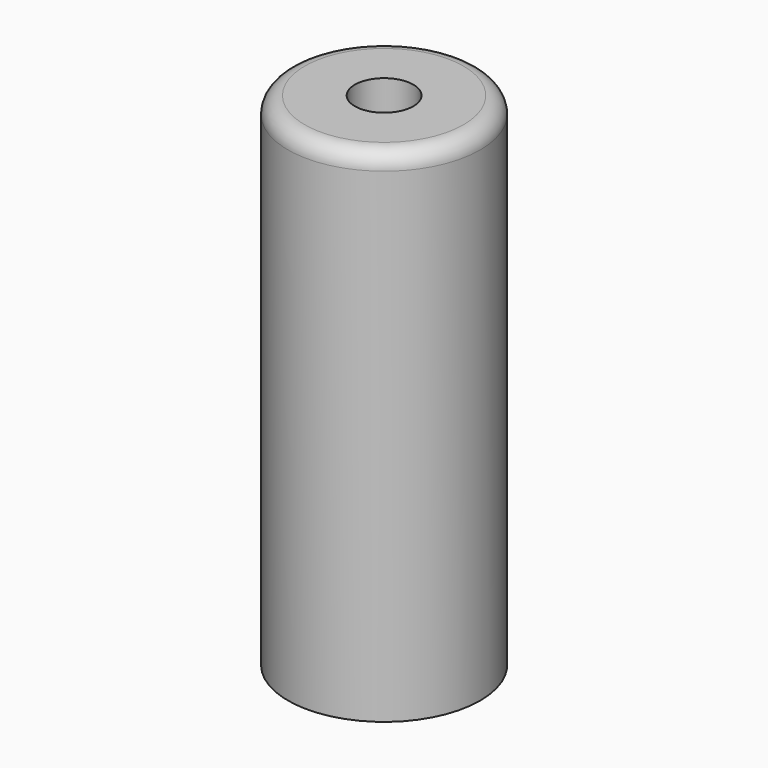
from build123d import *

# Parameters (mm, degrees)
F0_R     = 5.75
F1_DEPTH = 30
F2_R     = 1.75
F3_DEPTH = 25
F4_R     = 1


with BuildPart() as f1:
    # F0 (on Top) → F1 (new body)
    with BuildSketch(Plane.XY):
        Circle(F0_R)
    extrude(amount=F1_DEPTH)

    # F2 (on face) → F3 (cut)
    with BuildSketch(Plane.XY.offset(30)):
        Circle(F2_R)
    extrude(amount=-F3_DEPTH, mode=Mode.SUBTRACT)

    # F4
    f4_edges = [f1.edges().sort_by_distance(p)[0] for p in [
        (-5.75, 0, 30),
    ]]
    fillet(f4_edges, radius=F4_R)


solid = f1.part
